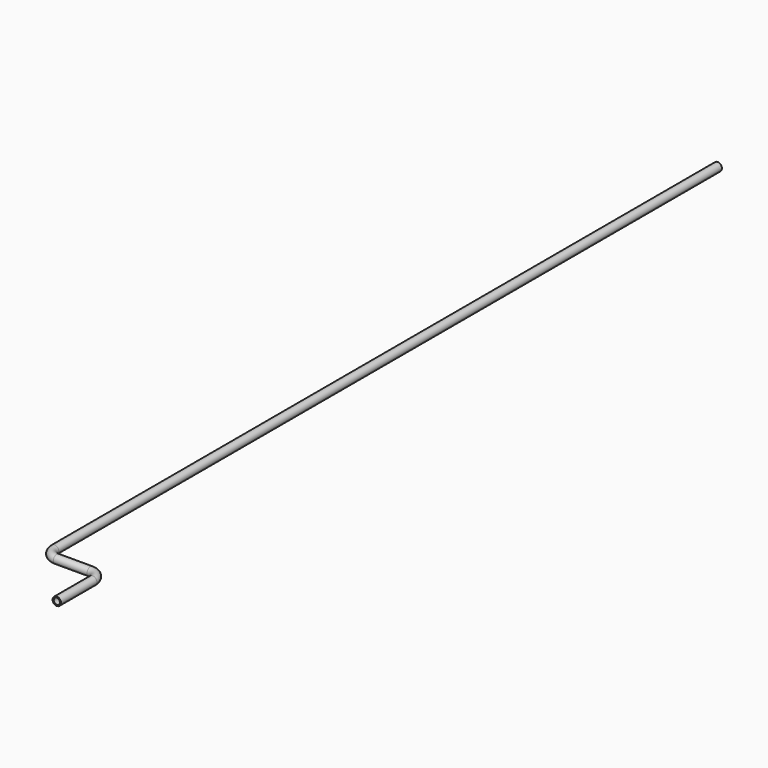
from build123d import *

# Parameters (mm, degrees)
F0_R   = 7.5
F0_R_2 = 5.5


with BuildPart() as f2:
    # F2: sweep along a path in F1
    with BuildLine(Plane.XY) as f2_path:
        Line((0, 0), (0, -1480))
        ThreePointArc((0, -1480), (5.8578643763, -1494.1421356237), (20, -1500))
        Line((20, -1500), (80, -1500))
        ThreePointArc((80, -1500), (94.1421356237, -1505.8578643763), (100, -1520))
        Line((100, -1520), (100, -1600))
    # F0 (on Front) → F2 (sweep)
    with BuildSketch(Plane.XZ):
        Circle(F0_R)
        Circle(F0_R_2, mode=Mode.SUBTRACT)
    sweep(path=f2_path.line)


solid = f2.part
